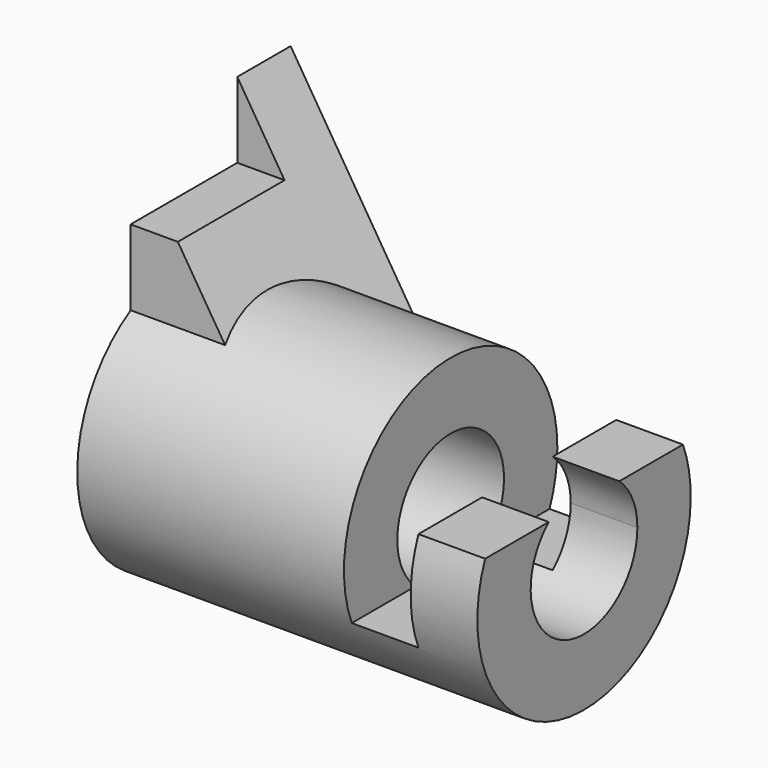
from build123d import *

# Parameters (mm, degrees)
F0_R          = 25.4
F0_R_2        = 12.7
F1_DEPTH      = 76.2
F3_DEPTH      = 25.401
F3_DEPTH_BACK = 25.4
F5_DEPTH      = 25.4
F5_DEPTH_BACK = 12.7
F6_W          = 25.4
F6_H          = 14.4014773719
F7_DEPTH      = 76.201
F8_DEPTH      = 76.201


with BuildPart() as f1:
    # F0 (on Right) → F1 (new body)
    with BuildSketch(Plane.YZ):
        Circle(F0_R)
        Circle(F0_R_2, mode=Mode.SUBTRACT)
    extrude(amount=F1_DEPTH)

    # F2 (on Front) → F3 (cut, two sides)
    with BuildSketch(Plane.XZ) as f3_sk:
        Polygon((76.2, 25.4), (50.8, 25.4), (50.8, -9.525), (63.5, -9.525), (63.5, 9.525), (76.2, 9.525), align=None)
    extrude(amount=-F3_DEPTH, mode=Mode.SUBTRACT)
    extrude(f3_sk.sketch, amount=F3_DEPTH_BACK, mode=Mode.SUBTRACT)

    # F4 (on Front) → F5 (join, two sides)
    with BuildSketch(Plane.XZ) as f5_sk:
        Polygon((31.75, 0), (0, 50.8), (0, 0), align=None)
    extrude(amount=-F5_DEPTH)
    extrude(f5_sk.sketch, amount=F5_DEPTH_BACK)

    # F6 (on face) → F7 (cut, through all)
    with BuildSketch(Plane(origin=(0, 0, 0), x_dir=(0, -1, 0), z_dir=(-1, 0, 0))):
        with Locations((0, 43.599261314)):
            Rectangle(F6_W, F6_H)
    extrude(amount=-F7_DEPTH, mode=Mode.SUBTRACT)

    # F0 (on Right) → F8 (cut, through all)
    with BuildSketch(Plane.YZ):
        Circle(F0_R_2)
    extrude(amount=F8_DEPTH, mode=Mode.SUBTRACT)


solid = f1.part
